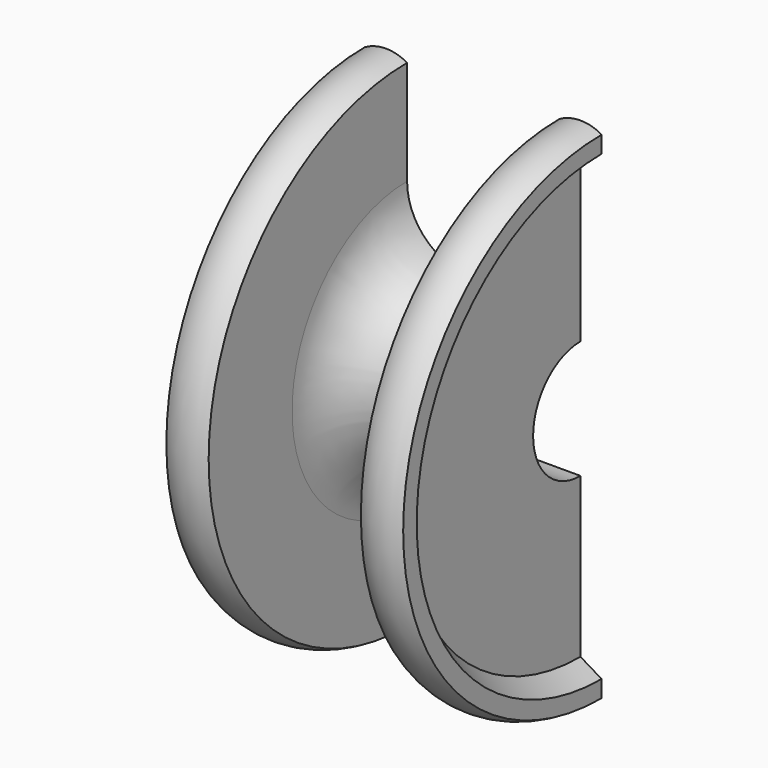
from build123d import *

# Parameters (mm, degrees)
F1_ANGLE = 180
F2_R     = 9.525


with BuildPart() as f1:
    # F0 (on Top) → F1 (revolve, symmetric)
    with BuildSketch(Plane.XY) as f1_sk:
        with BuildLine():
            ThreePointArc((-17.78, -37.249261), (-14.605, -38.1), (-11.43, -37.249261))
            Line((-11.43, -37.249261), (-11.43, -12.065))
            Line((-11.43, -12.065), (11.43, -12.065))
            Line((11.43, -12.065), (11.43, -37.249261))
            ThreePointArc((11.43, -37.249261), (14.605, -38.1), (17.78, -37.249261))
            Line((17.78, -37.249261), (17.78, -34.709261))
            Line((17.78, -34.709261), (14.605, -32.804261))
            Line((14.605, -32.804261), (14.605, -8.89))
            Line((14.605, -8.89), (-14.605, -8.89))
            Line((-14.605, -8.89), (-14.605, -32.804261))
            Line((-14.605, -32.804261), (-17.78, -34.709261))
            Line((-17.78, -34.709261), (-17.78, -37.249261))
        make_face()
    revolve(axis=Axis((0, 0, 0), (1, 0, 0)), revolution_arc=F1_ANGLE / 2)
    revolve(f1_sk.sketch, axis=Axis((0, 0, 0), (-1, 0, 0)), revolution_arc=F1_ANGLE / 2)

    # F2
    f2_edges = [f1.edges().sort_by_distance(p)[0] for p in [
        (11.43, -12.065, 0),
        (-11.43, -12.065, 0),
    ]]
    fillet(f2_edges, radius=F2_R)


solid = f1.part
